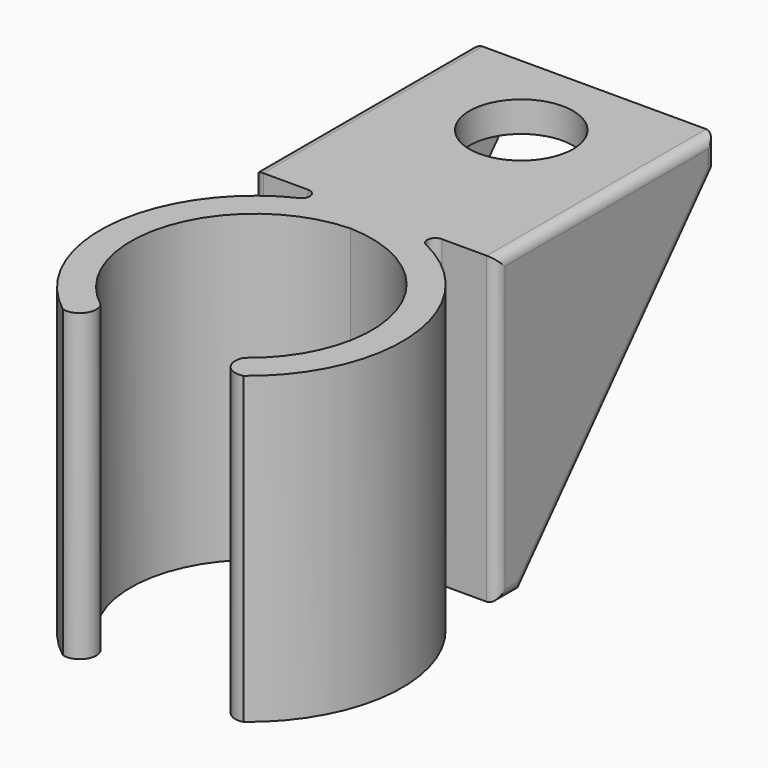
from build123d import *

# Parameters (mm, degrees)
F1_DEPTH = 30
F2_W     = 24
F2_H     = 24
F2_R     = 5.1
F3_DEPTH = 3
F6_DEPTH = 4.5
F8_R     = 1


with BuildPart() as f1:
    # F0 (on Top) → F1 (new body)
    with BuildSketch(Plane.XY):
        with BuildLine():
            ThreePointArc((0, 13.5), (11.2743427126, 5.0323645735), (7.0706637066, -8.4264888743))
            ThreePointArc((7.0706637066, -8.4264888743), (7.1725693465, -10.2375673256), (8.8942921325, -10.8085844568))
            ThreePointArc((8.8942921325, -10.8085844568), (14.7842599605, 2.839809495), (6.2367777531, 15.0016731019))
            ThreePointArc((6.2367777531, 15.0016731019), (5.8102691618, 15.8862752393), (6.5779752006, 16.4986949957))
            Line((6.5779752006, 16.4986949957), (12, 16.4986949957))
            Line((12, 16.4986949957), (12, 19.4986949957))
            Line((12, 19.4986949957), (-12, 19.4986949957))
            Line((-12, 19.4986949957), (-12, 16.4986949957))
            Line((-12, 16.4986949957), (-6.5779752006, 16.4986949957))
            ThreePointArc((-6.5779752006, 16.4986949957), (-5.8102691618, 15.8862752393), (-6.2367777531, 15.0016731019))
            ThreePointArc((-6.2367777531, 15.0016731019), (-14.7842599605, 2.839809495), (-8.8942921325, -10.8085844568))
            ThreePointArc((-8.8942921325, -10.8085844568), (-7.1725693465, -10.2375673256), (-7.0706637066, -8.4264888743))
            ThreePointArc((-7.0706637066, -8.4264888743), (-11.2743427126, 5.0323645735), (0, 13.5))
        make_face()
    extrude(amount=F1_DEPTH)

    # F2 (on face) → F3 (join)
    with BuildSketch(Plane.XY.offset(30)):
        with Locations((0, 31.4986949957)):
            Rectangle(F2_W, F2_H)
        with Locations((0, 34.4986949957)):
            Circle(F2_R, mode=Mode.SUBTRACT)
    extrude(amount=-F3_DEPTH)

    # F4: union 

    # F5 (on face) → F6 (join)
    with BuildSketch(Plane.YZ.offset(12)):
        Polygon((19.4986949957, 27), (19.4986949957, 0), (43.4986949957, 27), align=None)
    extrude(amount=-F6_DEPTH)

    # F7: F1 across plane


with BuildPart() as f1_1:
    add(f1.part)
    add(f1.part.mirror(Plane.YZ))

    # F8
    f8_edges = [f1_1.edges().sort_by_distance(p)[0] for p in [
        (12, 17.998695, 0),
        (12, 16.498695, 15),
        (12, 29.998695, 30),
        (12, 43.498695, 28.5),
        (12, 31.498695, 13.5),
        (-12, 43.498695, 28.5),
        (-12, 29.998695, 30),
        (-12, 16.498695, 15),
        (-12, 17.998695, 0),
        (-12, 31.498695, 13.5),
    ]]
    fillet(f8_edges, radius=F8_R)


solid = f1_1.part
